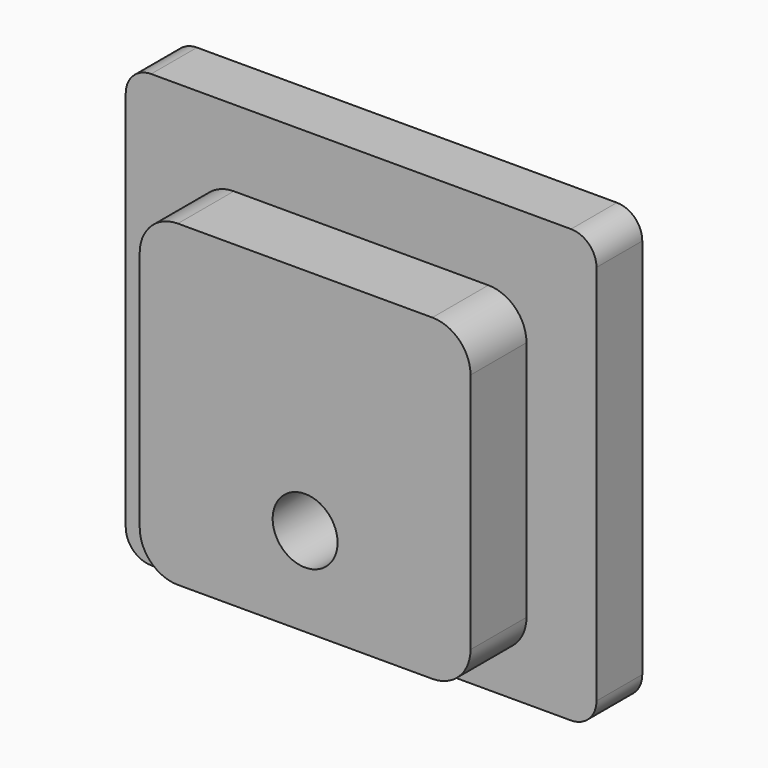
from build123d import *

# Parameters (mm, degrees)
SKETCH_W          = 37
SKETCH_H          = 34
PAD_DEPTH         = 4.5
FILLET_R          = 2
SKETCH001_W       = 26
SKETCH001_H       = 25
PAD001_DEPTH      = 5.5
FILLET001_R       = 3
SKETCH002_R       = 2.55
POCKET_DEPTH      = 4.501
POCKET_DEPTH_BACK = -5.501


with BuildPart() as part:
    # Sketch → Pad (new body)
    with BuildSketch(Plane.XZ):
        with Locations((0, 7)):
            Rectangle(SKETCH_W, SKETCH_H)
    extrude(amount=-PAD_DEPTH)

    # Fillet
    fillet_edges = [part.edges().sort_by_distance(p)[0] for p in [
        (18.5, 2.25, 24),
        (-18.5, 2.25, 24),
        (18.5, 2.25, -10),
        (-18.5, 2.25, -10),
    ]]
    fillet(fillet_edges, radius=FILLET_R)

    # Sketch001 → Pad001 (join)
    with BuildSketch(Plane.XZ):
        with Locations((0, 5.5)):
            Rectangle(SKETCH001_W, SKETCH001_H)
    extrude(amount=PAD001_DEPTH)

    # Fillet001
    fillet001_edges = [part.edges().sort_by_distance(p)[0] for p in [
        (-13, -2.75, -7),
        (13, -2.75, -7),
        (-13, -2.75, 18),
        (13, -2.75, 18),
    ]]
    fillet(fillet001_edges, radius=FILLET001_R)

    # Sketch002 → Pocket (cut, two sides)
    with BuildSketch(Plane.XZ) as pocket_sk:
        Circle(SKETCH002_R)
    extrude(amount=-POCKET_DEPTH, mode=Mode.SUBTRACT)
    extrude(pocket_sk.sketch, amount=-POCKET_DEPTH_BACK, mode=Mode.SUBTRACT)


solid = part.part
